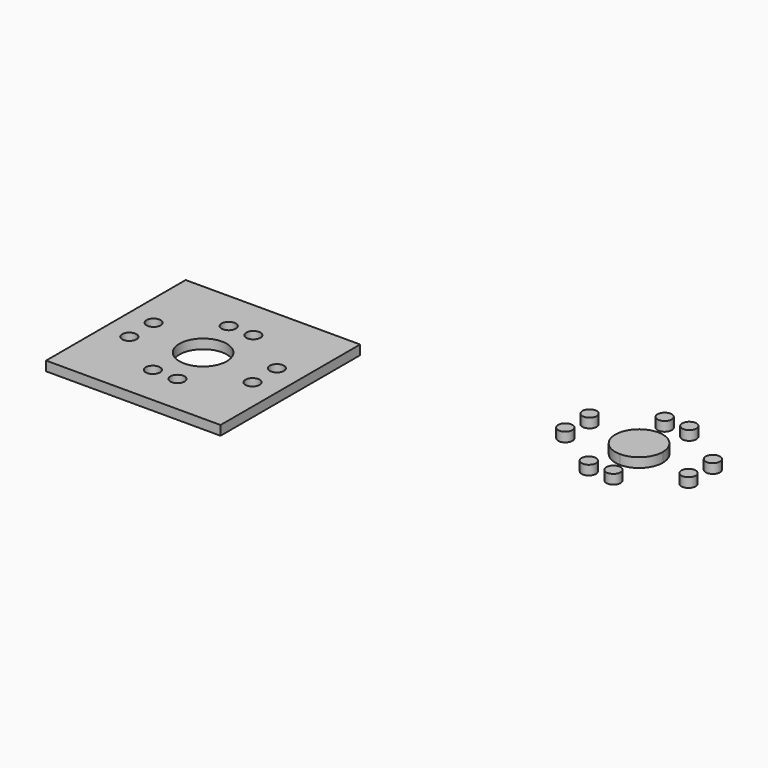
from build123d import *

# Parameters (mm, degrees)
F0_R     = 0.75
F1_DEPTH = 1


with BuildPart() as f1:
    # F0 (on Top) → F1 (new body)
    with BuildSketch(Plane.XY):
        with BuildLine():
            ThreePointArc((0, 6.7), (1.767767, 7.432233), (2.5, 9.2))
            ThreePointArc((2.5, 9.2), (-1.767767, 10.967767), (0, 6.7))
        make_face()
        Polygon((-9.2, 0), (0, 0), (9.2, 0), (9.2, 18.4), (0, 18.4), (-9.2, 18.4), align=None)
        with Locations((-1.3, 4.2)):
            Circle(F0_R, mode=Mode.SUBTRACT)
        with Locations((1.3, 4.2)):
            Circle(F0_R, mode=Mode.SUBTRACT)
        with Locations((-6.5, 7.6)):
            Circle(F0_R, mode=Mode.SUBTRACT)
        with BuildLine():
            ThreePointArc((0, 6.7), (-1.767767, 10.967767), (2.5, 9.2))
            ThreePointArc((2.5, 9.2), (1.767767, 7.432233), (0, 6.7))
        make_face(mode=Mode.SUBTRACT)
        with Locations((-6.5, 10.8)):
            Circle(F0_R, mode=Mode.SUBTRACT)
        with Locations((6.5, 7.6)):
            Circle(F0_R, mode=Mode.SUBTRACT)
        with Locations((6.5, 10.8)):
            Circle(F0_R, mode=Mode.SUBTRACT)
        with Locations((-1.3, 14.2)):
            Circle(F0_R, mode=Mode.SUBTRACT)
        with Locations((1.3, 14.2)):
            Circle(F0_R, mode=Mode.SUBTRACT)
        with Locations((36.845506, 13.991024)):
            Circle(F0_R)
        with Locations((36.845506, 23.991024)):
            Circle(F0_R)
        with Locations((39.445506, 23.991024)):
            Circle(F0_R)
        with Locations((39.445506, 13.991024)):
            Circle(F0_R)
        with Locations((44.645506, 17.391024)):
            Circle(F0_R)
        with Locations((44.645506, 20.591024)):
            Circle(F0_R)
        with Locations((31.645506, 20.591024)):
            Circle(F0_R)
        with Locations((31.645506, 17.391024)):
            Circle(F0_R)
        with BuildLine():
            ThreePointArc((38.145506, 16.491024), (39.913273, 17.223257), (40.645506, 18.991024))
            ThreePointArc((40.645506, 18.991024), (36.377739, 20.758791), (38.145506, 16.491024))
        make_face()
    extrude(amount=F1_DEPTH)


solid = f1.part
